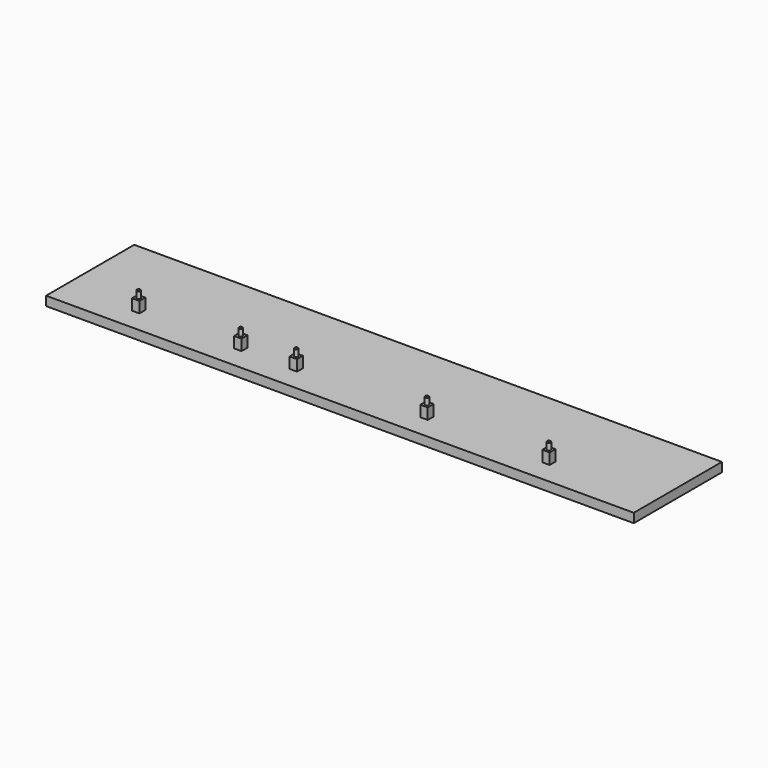
from build123d import *

# Parameters (mm, degrees)
F0_W      = 800
F0_H      = 150
F1_DEPTH  = 12.5
F2_W      = 10
F2_H      = 10
F3_DEPTH  = 15
F4_R      = 2.5
F5_DEPTH  = 10
F6_SIZE   = 1
F7_R      = 2.5
F8_DEPTH  = 10
F9_R      = 2.5
F10_DEPTH = 10
F11_R     = 2.5
F12_DEPTH = 10
F13_R     = 2.5
F14_DEPTH = 10
F15_SIZE  = 1


with BuildPart() as f1:
    # F0 (on Top) → F1 (new body)
    with BuildSketch(Plane.XY):
        Rectangle(F0_W, F0_H)
    extrude(amount=F1_DEPTH)

    # F2 (on face) → F3 (join)
    with BuildSketch(Plane.XY.offset(12.5)):
        with Locations((-302, -40)):
            Rectangle(F2_W, F2_H)
        with Locations((-163, -40)):
            Rectangle(F2_W, F2_H)
        with Locations((-87.5, -40)):
            Rectangle(F2_W, F2_H)
        with Locations((90.5, -40)):
            Rectangle(F2_W, F2_H)
        with Locations((256.5, -40)):
            Rectangle(F2_W, F2_H)
    extrude(amount=F3_DEPTH)

    # F4 (on face) → F5 (join)
    with BuildSketch(Plane.XY.offset(27.5)):
        with Locations((-302, -40)):
            Circle(F4_R)
    extrude(amount=F5_DEPTH)

    # F6
    f6_edges = [f1.edges().sort_by_distance(p)[0] for p in [
        (-304.5, -40, 37.5),
    ]]
    chamfer(f6_edges, length=F6_SIZE)

    # F7 (on face) → F8 (join)
    with BuildSketch(Plane.XY.offset(27.5)):
        with Locations((-163, -40)):
            Circle(F7_R)
    extrude(amount=F8_DEPTH)

    # F9 (on face) → F10 (join)
    with BuildSketch(Plane.XY.offset(27.5)):
        with Locations((-87.5, -40)):
            Circle(F9_R)
    extrude(amount=F10_DEPTH)

    # F11 (on face) → F12 (join)
    with BuildSketch(Plane.XY.offset(27.5)):
        with Locations((90.5, -40)):
            Circle(F11_R)
    extrude(amount=F12_DEPTH)

    # F13 (on face) → F14 (join)
    with BuildSketch(Plane.XY.offset(27.5)):
        with Locations((256.5, -40)):
            Circle(F13_R)
    extrude(amount=F14_DEPTH)

    # F15
    f15_edges = [f1.edges().sort_by_distance(p)[0] for p in [
        (254, -40, 37.5),
        (88, -40, 37.5),
        (-90, -40, 37.5),
        (-165.5, -40, 37.5),
    ]]
    chamfer(f15_edges, length=F15_SIZE)


solid = f1.part
